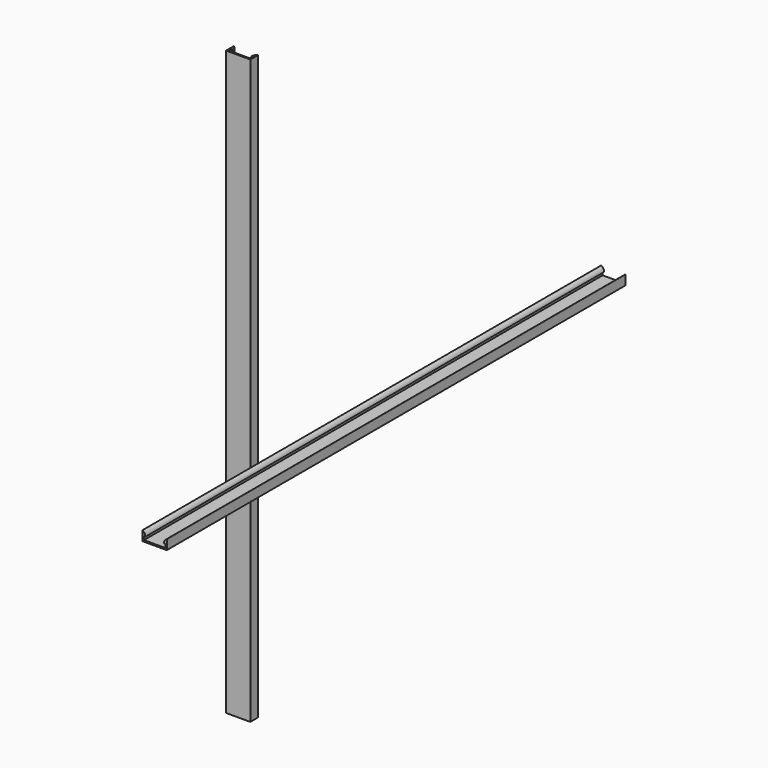
from build123d import *

# Parameters (mm, degrees)
F1_DEPTH = 300
F3_DEPTH = 295


with BuildPart() as f1:
    # F0 (on Top) → F1 (new body, symmetric)
    with BuildSketch(Plane.XY):
        with BuildLine():
            Line((-108.372681, 0), (-95.872681, 0))
            Line((-95.872681, 0), (-83.372681, 0))
            Line((-83.372681, 0), (-83.372681, 9.5))
            Line((-83.372681, 9.5), (-83.372681, 10))
            ThreePointArc((-83.372681, 10), (-85.520908, 7.888936), (-86.372681, 5))
            Line((-86.372681, 5), (-85.872681, 5))
            Line((-85.872681, 5), (-84.872681, 5))
            Line((-84.872681, 5), (-84.872681, 1.5))
            Line((-84.872681, 1.5), (-95.872681, 1.5))
            Line((-95.872681, 1.5), (-106.872681, 1.5))
            Line((-106.872681, 1.5), (-106.872681, 5))
            Line((-106.872681, 5), (-105.872681, 5))
            Line((-105.872681, 5), (-105.372681, 5))
            ThreePointArc((-105.372681, 5), (-106.224454, 7.888936), (-108.372681, 10))
            Line((-108.372681, 10), (-108.372681, 9.5))
            Line((-108.372681, 9.5), (-108.372681, 0))
        make_face()
    extrude(amount=F1_DEPTH, both=True)


with BuildPart() as f3:
    # F2 (on Front) → F3 (new body, symmetric)
    with BuildSketch(Plane.XZ):
        with BuildLine():
            Line((41.69362, 24.29045), (54.19362, 24.29045))
            Line((54.19362, 24.29045), (66.69362, 24.29045))
            Line((66.69362, 24.29045), (66.69362, 33.79045))
            Line((66.69362, 33.79045), (66.69362, 34.29045))
            ThreePointArc((66.69362, 34.29045), (64.545393, 32.179386), (63.69362, 29.29045))
            Line((63.69362, 29.29045), (64.19362, 29.29045))
            Line((64.19362, 29.29045), (65.19362, 29.29045))
            Line((65.19362, 29.29045), (65.19362, 25.79045))
            Line((65.19362, 25.79045), (54.19362, 25.79045))
            Line((54.19362, 25.79045), (43.19362, 25.79045))
            Line((43.19362, 25.79045), (43.19362, 29.29045))
            Line((43.19362, 29.29045), (44.19362, 29.29045))
            Line((44.19362, 29.29045), (44.69362, 29.29045))
            ThreePointArc((44.69362, 29.29045), (43.841847, 32.179386), (41.69362, 34.29045))
            Line((41.69362, 34.29045), (41.69362, 33.79045))
            Line((41.69362, 33.79045), (41.69362, 24.29045))
        make_face()
    extrude(amount=F3_DEPTH, both=True)


solid = Compound([f1.part, f3.part])
